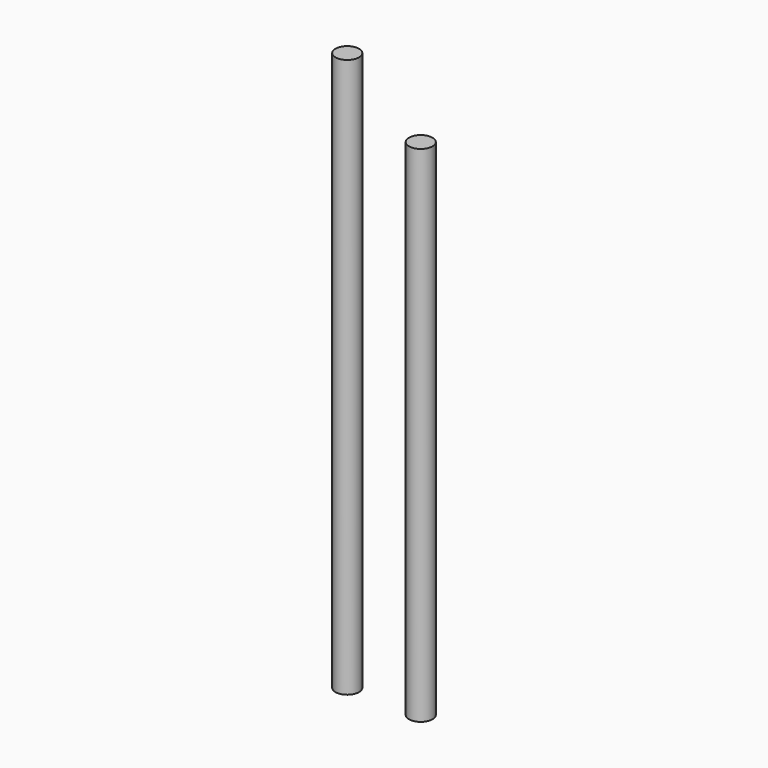
from build123d import *

# Parameters (mm, degrees)
F0_R     = 8
F1_DEPTH = 380
F2_DEPTH = 343


with BuildPart() as f1:
    # F0 (on Top) → F1 (new body)
    with BuildSketch(Plane.XY):
        with Locations((-32.549255, 7.005644)):
            Circle(F0_R)
    extrude(amount=F1_DEPTH)


with BuildPart() as f2:
    # F0 (on Top) → F2 (new body)
    with BuildSketch(Plane.XY):
        with Locations((-32.549255, 7.005644)):
            Circle(F0_R)
    extrude(amount=F2_DEPTH)


with BuildPart() as f2_1:
    # F3: moved
    add(f2.part.moved(Location((50, 0, 0))))


solid = Compound([f1.part, f2_1.part])
